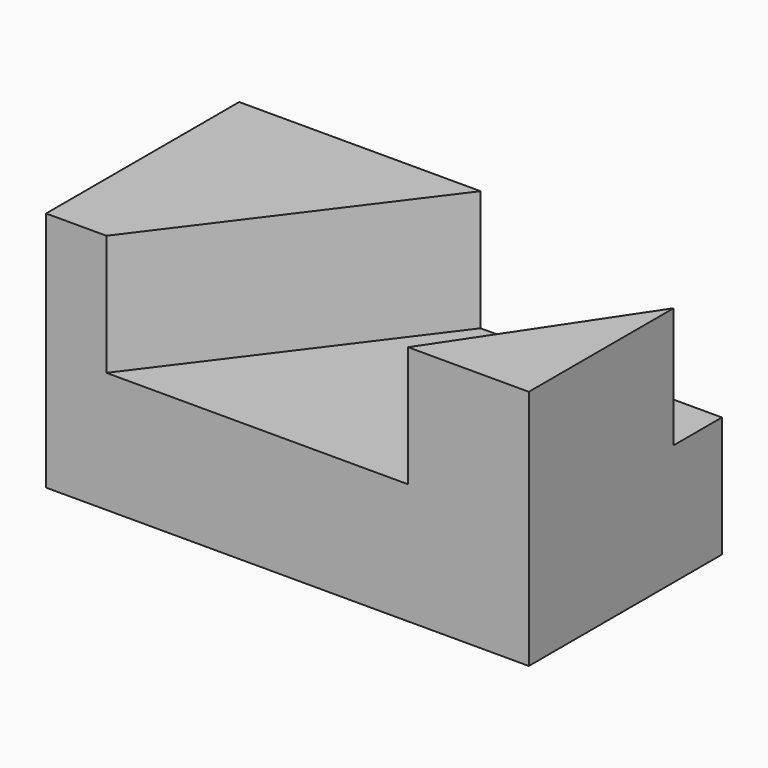
from build123d import *

# Parameters (mm, degrees)
F0_W     = 50.8
F0_H     = 25.4
F1_DEPTH = 25.4
F3_DEPTH = 12.7


with BuildPart() as f1:
    # F0 (on Top) → F1 (new body)
    with BuildSketch(Plane.XY):
        with Locations((25.4, 12.7)):
            Rectangle(F0_W, F0_H)
    extrude(amount=F1_DEPTH)

    # F2 (on face) → F3 (cut)
    with BuildSketch(Plane.XY.offset(25.4)):
        Polygon((25.4, 25.4), (6.35, 0), (38.1, 0), (50.8, 19.05), (50.8, 25.4), align=None)
    extrude(amount=-F3_DEPTH, mode=Mode.SUBTRACT)


solid = f1.part
